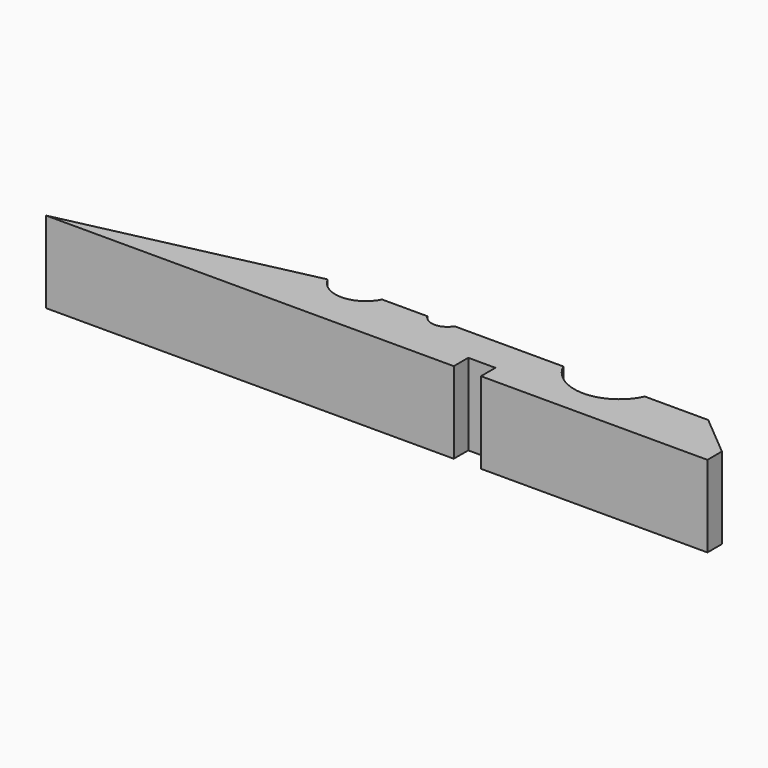
from build123d import *

# Parameters (mm, degrees)
F1_DEPTH = 9


with BuildPart() as f1:
    # F0 (on Top) → F1 (new body)
    with BuildSketch(Plane.XY):
        with BuildLine():
            Line((-45, 0), (0, 0))
            Line((0, 0), (0, 2))
            Line((0, 2), (3, 2))
            Line((3, 2), (3, 0))
            Line((3, 0), (28, 0))
            Line((28, 0), (28, 2))
            Line((28, 2), (23.403733, 5.856726))
            Line((23.403733, 5.856726), (16.403733, 5.856726))
            ThreePointArc((16.403733, 5.856726), (11.903733, 3), (7.403733, 5.856726))
            Line((7.403733, 5.856726), (-4.596267, 5.856726))
            ThreePointArc((-4.596267, 5.856726), (-6.096267, 5), (-7.596267, 5.856726))
            Line((-7.596267, 5.856726), (-12.596267, 5.856726))
            ThreePointArc((-12.596267, 5.856726), (-15.596267, 4), (-18.596267, 5.856726))
            Line((-18.596267, 5.856726), (-45, 0))
        make_face()
    extrude(amount=F1_DEPTH)


solid = f1.part
